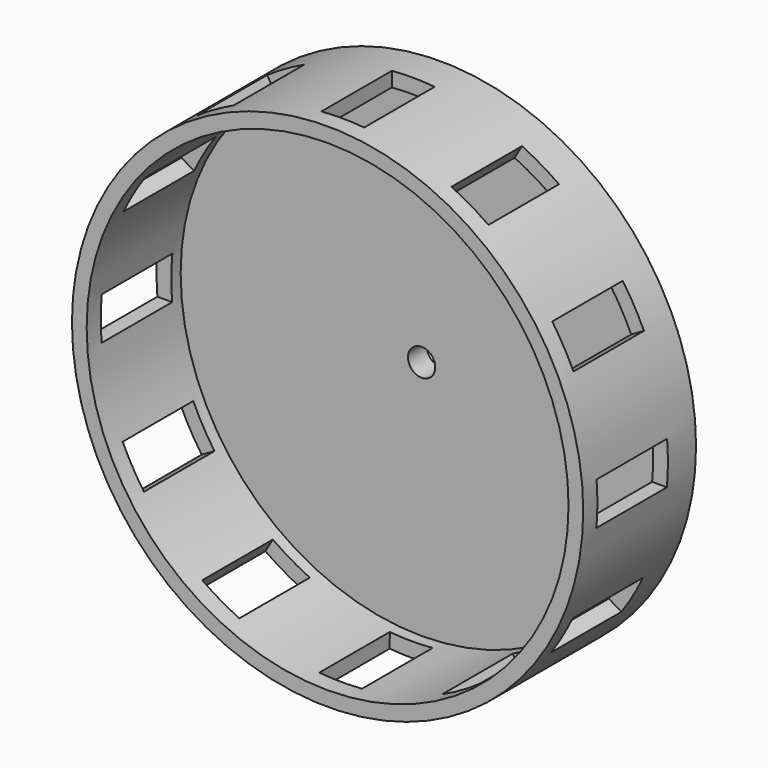
from build123d import *

# Parameters (mm, degrees)
F0_R      = 52.07
F1_DEPTH  = 5.08
F0_R_2    = 55.245
F2_DEPTH  = 30.48
F4_DEPTH  = 21.59
F5_W      = 9.2520020868
F5_H      = 19.05
F6_DEPTH  = 50.8
F7_W      = 9.2520020868
F7_H      = 19.05
F8_DEPTH  = 50.8
F9_W      = 9.2520020868
F9_H      = 19.05
F10_DEPTH = 50.8
F11_W     = 19.05
F11_H     = 9.2520020868
F12_DEPTH = 50.8
F13_W     = 19.05
F13_H     = 9.2520020868
F14_DEPTH = 50.8
F15_W     = 19.05
F15_H     = 9.2520020868
F16_DEPTH = 50.8
F17_W     = 9.2520020868
F17_H     = 19.05
F18_DEPTH = 50.8
F19_W     = 9.2520020868
F19_H     = 19.05
F20_DEPTH = 50.8
F21_W     = 9.2520020868
F21_H     = 19.05
F22_DEPTH = 50.8
F23_W     = 19.05
F23_H     = 9.2520020868
F24_DEPTH = 50.8
F25_W     = 19.05
F25_H     = 9.2520020868
F26_DEPTH = 50.8
F27_W     = 19.05
F27_H     = 9.2520020868
F28_DEPTH = 50.8
F29_DEPTH = 21.59
F30_R     = 2.9464
F31_DEPTH = 8.382


with BuildPart() as f1:
    # F0 (on Front) → F1 (new body)
    with BuildSketch(Plane.XZ):
        Circle(F0_R)
    extrude(amount=F1_DEPTH)

    # F0 (on Front) → F2 (join)
    with BuildSketch(Plane.XZ):
        Circle(F0_R_2)
        Circle(F0_R, mode=Mode.SUBTRACT)
    extrude(amount=F2_DEPTH)

    # F3 (on face) → F4 (join)
    with BuildSketch(Plane.XZ.offset(5.08)):
        Polygon((4.5521322669, -17.2840948262), (12.5843095976, -12.6923990675), (17.2445313344, -4.6997852286), (17.2840948262, 4.5521322669), (12.6923990675, 12.5843095976), (4.6997852286, 17.2445313344), (-4.5521322669, 17.2840948262), (-12.5843095976, 12.6923990675), (-17.2445313344, 4.6997852286), (-17.2840948262, -4.5521322669), (-12.6923990675, -12.5843095976), (-4.6997852286, -17.2445313344), align=None)
    extrude(amount=F4_DEPTH)

    # F5 (on face) → F6 (cut)
    with BuildSketch(Plane(origin=(8.696092148, 0, 14.914420466), x_dir=(0.8638793813, 0, -0.5036987339), z_dir=(0.5036987339, 0, 0.8638793813))):
        with Locations((0, -17.145)):
            Rectangle(F5_W, F5_H)
    extrude(amount=F6_DEPTH, mode=Mode.SUBTRACT)

    # F7 (on face) → F8 (cut)
    with BuildSketch(Plane(origin=(0.0738264808, 0, 17.2643130803), x_dir=(0.999990857, 0, -0.0042762087), z_dir=(0.0042762087, 0, 0.999990857))):
        with Locations((0, -17.145)):
            Rectangle(F7_W, F7_H)
    extrude(amount=F8_DEPTH, mode=Mode.SUBTRACT)

    # F9 (on face) → F10 (cut)
    with BuildSketch(Plane(origin=(-8.5682209323, 0, 14.9882469469), x_dir=(0.86815559, 0, 0.4962921231), z_dir=(-0.4962921231, 0, 0.86815559))):
        with Locations((0, -17.145)):
            Rectangle(F9_W, F9_H)
    extrude(amount=F10_DEPTH, mode=Mode.SUBTRACT)

    # F11 (on face) → F12 (cut)
    with BuildSketch(Plane(origin=(-14.914420466, 0, 8.696092148), x_dir=(0, -1, 0), z_dir=(-0.8638793813, 0, 0.5036987339))):
        with Locations((17.145, 0)):
            Rectangle(F11_W, F11_H)
    extrude(amount=F12_DEPTH, mode=Mode.SUBTRACT)

    # F13 (on face) → F14 (cut)
    with BuildSketch(Plane(origin=(-17.2643130803, 0, 0.0738264808), x_dir=(0, -1, 0), z_dir=(-0.999990857, 0, 0.0042762087))):
        with Locations((17.145, 0)):
            Rectangle(F13_W, F13_H)
    extrude(amount=F14_DEPTH, mode=Mode.SUBTRACT)

    # F15 (on face) → F16 (cut)
    with BuildSketch(Plane(origin=(-14.9882469469, 0, -8.5682209323), x_dir=(0, -1, 0), z_dir=(-0.86815559, 0, -0.4962921231))):
        with Locations((17.145, 0)):
            Rectangle(F15_W, F15_H)
    extrude(amount=F16_DEPTH, mode=Mode.SUBTRACT)

    # F17 (on face) → F18 (cut)
    with BuildSketch(Plane(origin=(-8.696092148, 0, -14.914420466), x_dir=(0.8638793813, 0, -0.5036987339), z_dir=(-0.5036987339, 0, -0.8638793813))):
        with Locations((0, 17.145)):
            Rectangle(F17_W, F17_H)
    extrude(amount=F18_DEPTH, mode=Mode.SUBTRACT)

    # F19 (on face) → F20 (cut)
    with BuildSketch(Plane(origin=(-0.0738264808, 0, -17.2643130803), x_dir=(0.999990857, 0, -0.0042762087), z_dir=(-0.0042762087, 0, -0.999990857))):
        with Locations((0, 17.145)):
            Rectangle(F19_W, F19_H)
    extrude(amount=F20_DEPTH, mode=Mode.SUBTRACT)

    # F21 (on face) → F22 (cut)
    with BuildSketch(Plane(origin=(8.5682209323, 0, -14.9882469469), x_dir=(0.86815559, 0, 0.4962921231), z_dir=(0.4962921231, 0, -0.86815559))):
        with Locations((0, 17.145)):
            Rectangle(F21_W, F21_H)
    extrude(amount=F22_DEPTH, mode=Mode.SUBTRACT)

    # F23 (on face) → F24 (cut)
    with BuildSketch(Plane(origin=(14.914420466, 0, -8.696092148), x_dir=(0, 1, 0), z_dir=(0.8638793813, 0, -0.5036987339))):
        with Locations((-17.145, 0)):
            Rectangle(F23_W, F23_H)
    extrude(amount=F24_DEPTH, mode=Mode.SUBTRACT)

    # F25 (on face) → F26 (cut)
    with BuildSketch(Plane(origin=(17.2643130803, 0, -0.0738264808), x_dir=(0, 1, 0), z_dir=(0.999990857, 0, -0.0042762087))):
        with Locations((-17.145, 0)):
            Rectangle(F25_W, F25_H)
    extrude(amount=F26_DEPTH, mode=Mode.SUBTRACT)

    # F27 (on face) → F28 (cut)
    with BuildSketch(Plane(origin=(14.9882469469, 0, 8.5682209323), x_dir=(0, 1, 0), z_dir=(0.86815559, 0, 0.4962921231))):
        with Locations((-17.145, 0)):
            Rectangle(F27_W, F27_H)
    extrude(amount=F28_DEPTH, mode=Mode.SUBTRACT)

    # F29 (cut): a face of the model
    f29_faces = [f1.faces().sort_by_distance(p)[0] for p in [
        (0, -26.67, 0),
    ]]
    extrude(f29_faces, amount=-F29_DEPTH, mode=Mode.SUBTRACT)

    # F30 (on face) → F31 (cut)
    with BuildSketch(Plane.XZ.offset(5.08)):
        Circle(F30_R)
    extrude(amount=-F31_DEPTH, mode=Mode.SUBTRACT)


solid = f1.part
